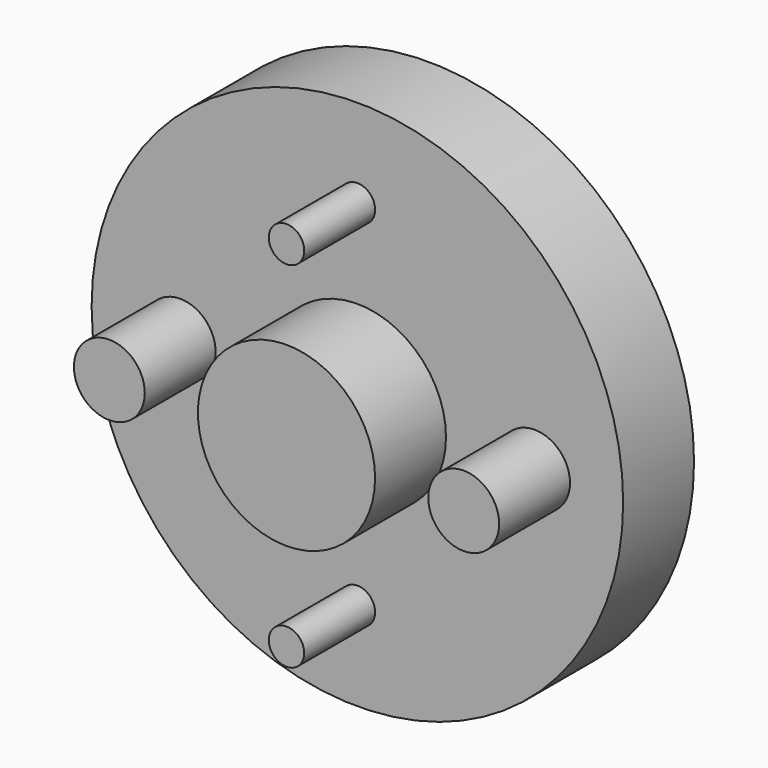
from build123d import *

# Parameters (mm, degrees)
F0_R     = 10
F0_R_2   = 5
F0_R_3   = 25
F1_DEPTH = 25
F0_R_4   = 75
F2_DEPTH = 25


with BuildPart() as f1:
    # F0 (on Front) → F1 (new body)
    with BuildSketch(Plane.XZ):
        with Locations((-50, 0)):
            Circle(F0_R)
        with Locations((0, 50)):
            Circle(F0_R_2)
        with Locations((50, 0)):
            Circle(F0_R)
        with Locations((0, -50)):
            Circle(F0_R_2)
        Circle(F0_R_3)
    extrude(amount=F1_DEPTH)


with BuildPart() as f2:
    # F0 (on Front) → F2 (new body)
    with BuildSketch(Plane.XZ):
        Circle(F0_R_4)
        with Locations((0, -50)):
            Circle(F0_R_2, mode=Mode.SUBTRACT)
        with Locations((-50, 0)):
            Circle(F0_R, mode=Mode.SUBTRACT)
        Circle(F0_R_3, mode=Mode.SUBTRACT)
        with Locations((50, 0)):
            Circle(F0_R, mode=Mode.SUBTRACT)
        with Locations((0, 50)):
            Circle(F0_R_2, mode=Mode.SUBTRACT)
    extrude(amount=-F2_DEPTH)


solid = Compound([f1.part, f2.part])
